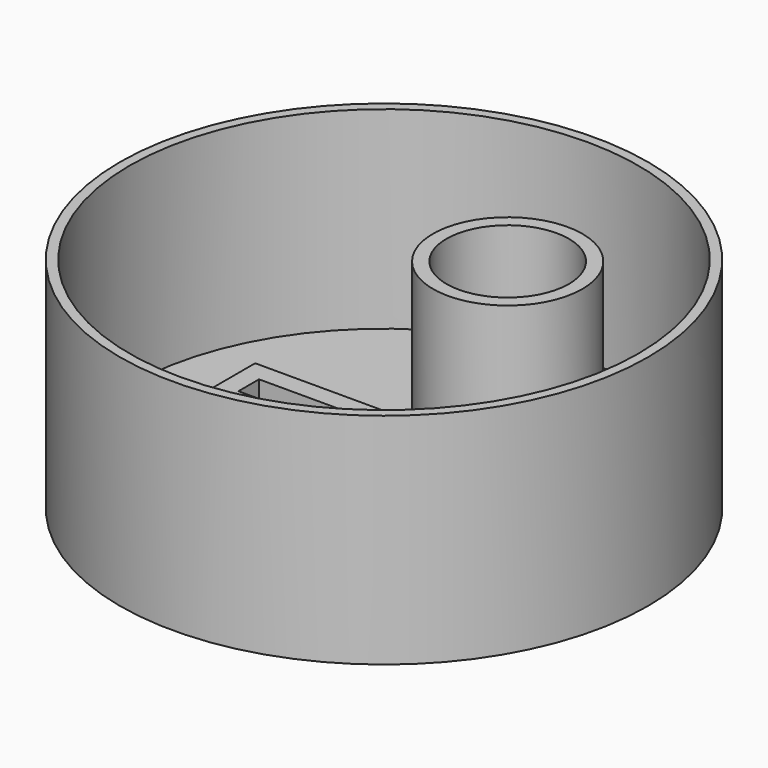
from build123d import *

# Parameters (mm, degrees)
SKETCH_R        = 20.5
PAD_DEPTH       = 17
SKETCH001_R     = 19.75
POCKET_DEPTH    = 15
SKETCH002_W     = 21
SKETCH002_H     = 2
POCKET001_DEPTH = 5
SKETCH003_R     = 5.8
PAD001_DEPTH    = 10
SKETCH004_R     = 4.75
POCKET002_DEPTH = 13
SKETCH005_W     = 22.5
SKETCH005_H     = 1.5
SKETCH005_W_2   = 1.5
SKETCH005_H_2   = 3.5
PAD002_DEPTH    = 3


with BuildPart() as part:
    # Sketch → Pad (new body)
    with BuildSketch(Plane.XY):
        Circle(SKETCH_R)
    extrude(amount=PAD_DEPTH)

    # Sketch001 (on Face3 of Pad) → Pocket (cut)
    with BuildSketch(Plane.XY.offset(17)):
        Circle(SKETCH001_R)
    extrude(amount=-POCKET_DEPTH, mode=Mode.SUBTRACT)

    # Sketch002 (on Face5 of Pocket) → Pocket001 (cut)
    with BuildSketch(Plane.XY.offset(2)):
        Rectangle(SKETCH002_W, SKETCH002_H)
    extrude(amount=-POCKET001_DEPTH, mode=Mode.SUBTRACT)

    # Sketch003 (on Face9 of Pocket001) → Pad001 (join)
    with BuildSketch(Plane.XY.offset(2)):
        with Locations((0, 12)):
            Circle(SKETCH003_R)
    extrude(amount=PAD001_DEPTH)

    # Sketch004 (on Face11 of Pad001) → Pocket002 (cut)
    with BuildSketch(Plane.XY.offset(12)):
        with Locations((0, 12)):
            Circle(SKETCH004_R)
    extrude(amount=-POCKET002_DEPTH, mode=Mode.SUBTRACT)

    # Sketch005 (on Face10 of Pocket002) → Pad002 (join)
    with BuildSketch(Plane.XY.offset(2)):
        with Locations((-0.75, 1.75)):
            Rectangle(SKETCH005_W, SKETCH005_H)
        with Locations((11.25, 0.75)):
            Rectangle(SKETCH005_W_2, SKETCH005_H_2)
        with Locations((0.75, -1.75)):
            Rectangle(SKETCH005_W, SKETCH005_H)
        with Locations((-11.25, -0.75)):
            Rectangle(SKETCH005_W_2, SKETCH005_H_2)
    extrude(amount=PAD002_DEPTH)


solid = part.part
